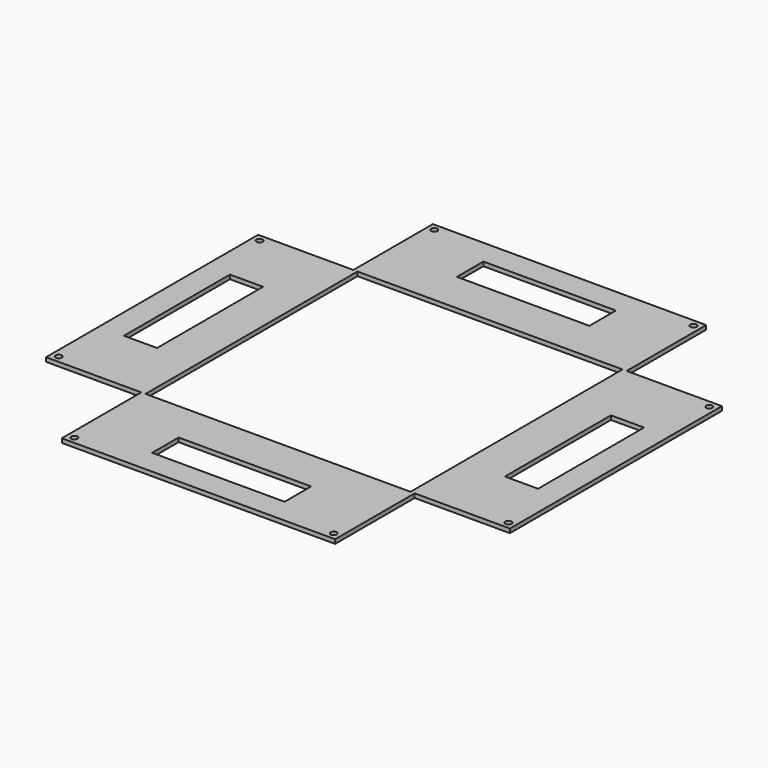
from build123d import *

# Parameters (mm, degrees)
F0_W     = 25.4
F0_H     = 101.6
F0_W_2   = 101.6
F0_H_2   = 25.4
F0_R     = 2.38125
F1_DEPTH = 3.175


with BuildPart() as f1:
    # F0 (on Top) → F1 (new body)
    with BuildSketch(Plane.XY):
        with BuildLine():
            ThreePointArc((-68.430596, 197.811846), (-69.900581, 200.011834), (-72.495644, 199.495644))
            ThreePointArc((-72.495644, 199.495644), (-71.723111, 195.611858), (-68.430596, 197.811846))
        make_face()
        with BuildLine():
            ThreePointArc((-68.430596, 5.388154), (-71.723111, 7.588142), (-72.495644, 3.704356))
            ThreePointArc((-72.495644, 3.704356), (-69.900581, 3.188166), (-68.430596, 5.388154))
        make_face()
        Polygon((-3.175, 0), (0, 0), (0, 101.6), (0, 203.2), (-3.175, 203.2), (-76.2, 203.2), (-76.2, 0), align=None)
        with BuildLine():
            ThreePointArc((-68.430596, 5.388154), (-69.900581, 3.188166), (-72.495644, 3.704356))
            ThreePointArc((-72.495644, 3.704356), (-71.723111, 7.588142), (-68.430596, 5.388154))
        make_face(mode=Mode.SUBTRACT)
        with Locations((-44.45, 101.6)):
            Rectangle(F0_W, F0_H, mode=Mode.SUBTRACT)
        with BuildLine():
            ThreePointArc((-68.430596, 197.811846), (-71.723111, 195.611858), (-72.495644, 199.495644))
            ThreePointArc((-72.495644, 199.495644), (-69.900581, 200.011834), (-68.430596, 197.811846))
        make_face(mode=Mode.SUBTRACT)
        with BuildLine():
            ThreePointArc((4.594404, -70.811846), (1.301889, -68.611858), (0.529356, -72.495644))
            ThreePointArc((0.529356, -72.495644), (3.124419, -73.011834), (4.594404, -70.811846))
        make_face()
        with BuildLine():
            ThreePointArc((203.368096, -70.811846), (198.786858, -69.900581), (202.670644, -72.495644))
            ThreePointArc((202.670644, -72.495644), (203.186834, -71.723111), (203.368096, -70.811846))
        make_face()
        Polygon((101.6, 0), (0, 0), (-3.175, 0), (-3.175, -76.2), (206.375, -76.2), (206.375, 0), (203.2, 0), align=None)
        with BuildLine():
            ThreePointArc((4.594404, -70.811846), (3.124419, -73.011834), (0.529356, -72.495644))
            ThreePointArc((0.529356, -72.495644), (1.301889, -68.611858), (4.594404, -70.811846))
        make_face(mode=Mode.SUBTRACT)
        with Locations((101.6, -44.45)):
            Rectangle(F0_W_2, F0_H_2, mode=Mode.SUBTRACT)
        with BuildLine():
            ThreePointArc((203.368096, -70.811846), (203.186834, -71.723111), (202.670644, -72.495644))
            ThreePointArc((202.670644, -72.495644), (198.786858, -69.900581), (203.368096, -70.811846))
        make_face(mode=Mode.SUBTRACT)
        Polygon((-3.175, 203.2), (0, 203.2), (101.6, 203.2), (203.2, 203.2), (206.375, 203.2), (206.375, 279.4), (-3.175, 279.4), align=None)
        with Locations((2.213154, 274.011846)):
            Circle(F0_R, mode=Mode.SUBTRACT)
        with Locations((101.6, 247.65)):
            Rectangle(F0_W_2, F0_H_2, mode=Mode.SUBTRACT)
        with Locations((200.986846, 274.011846)):
            Circle(F0_R, mode=Mode.SUBTRACT)
        Polygon((203.2, 101.6), (203.2, 0), (206.375, 0), (279.4, 0), (279.4, 203.2), (206.375, 203.2), (203.2, 203.2), align=None)
        with Locations((274.011846, 5.388154)):
            Circle(F0_R, mode=Mode.SUBTRACT)
        with Locations((247.65, 101.6)):
            Rectangle(F0_W, F0_H, mode=Mode.SUBTRACT)
        with Locations((274.011846, 197.811846)):
            Circle(F0_R, mode=Mode.SUBTRACT)
    extrude(amount=F1_DEPTH)


solid = f1.part
